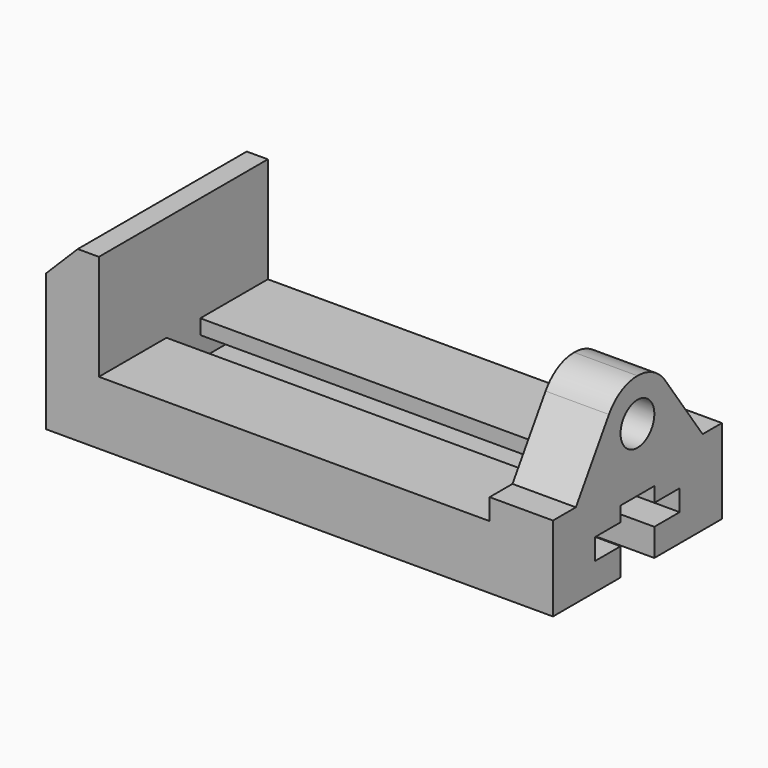
from build123d import *

# Parameters (mm, degrees)
F0_W     = 304.8
F0_H     = 101.6
F1_DEPTH = 127
F2_W     = 234.95
F2_H     = 63.5
F3_DEPTH = 127.001
F5_DEPTH = 127.001
F6_R     = 12.7
F7_DEPTH = 38.1
F8_DEPTH = 273.05


with BuildPart() as f1:
    # F0 (on Front) → F1 (new body)
    with BuildSketch(Plane.XZ):
        with Locations((152.4, 50.8)):
            Rectangle(F0_W, F0_H)
    extrude(amount=-F1_DEPTH)

    # F2 (on face) → F3 (cut, through all)
    with BuildSketch(Plane.XZ):
        with Locations((149.225, 69.85)):
            Rectangle(F2_W, F2_H)
    extrude(amount=-F3_DEPTH, mode=Mode.SUBTRACT)

    # F4 (on face) → F5 (cut, through all)
    with BuildSketch(Plane.XZ):
        Polygon((19.05, 101.6), (0, 101.6), (0, 82.55), align=None)
    extrude(amount=-F5_DEPTH, mode=Mode.SUBTRACT)

    # F6 (on face) → F7 (cut, through all)
    with BuildSketch(Plane.YZ.offset(304.8)):
        with BuildLine():
            Line((0, 101.6), (0, 50.8))
            Line((0, 50.8), (17.221443, 50.8))
            Line((17.221443, 50.8), (42.073002, 89.839785))
            ThreePointArc((42.073002, 89.839785), (51.278923, 98.466685), (63.5, 101.6))
            Line((63.5, 101.6), (0, 101.6))
        make_face()
        with BuildLine():
            Line((127, 101.6), (63.5, 101.6))
            ThreePointArc((63.5, 101.6), (75.721077, 98.466685), (84.926998, 89.839785))
            Line((84.926998, 89.839785), (112.471443, 50.8))
            Line((112.471443, 50.8), (127, 50.8))
            Line((127, 50.8), (127, 101.6))
        make_face()
        with Locations((63.5, 76.2)):
            Circle(F6_R)
    extrude(amount=-F7_DEPTH, mode=Mode.SUBTRACT)

    # F6 (on face) → F8 (cut)
    with BuildSketch(Plane.YZ.offset(304.8)):
        Polygon((50.8, 16.51), (50.8, 0), (63.5, 0), (76.2, 0), (76.2, 16.51), (95.25, 16.51), (95.25, 29.21), (76.2, 29.21), (76.2, 38.1), (63.5, 38.1), (50.8, 38.1), (50.8, 29.21), (31.75, 29.21), (31.75, 16.51), align=None)
    extrude(amount=-F8_DEPTH, mode=Mode.SUBTRACT)


solid = f1.part
